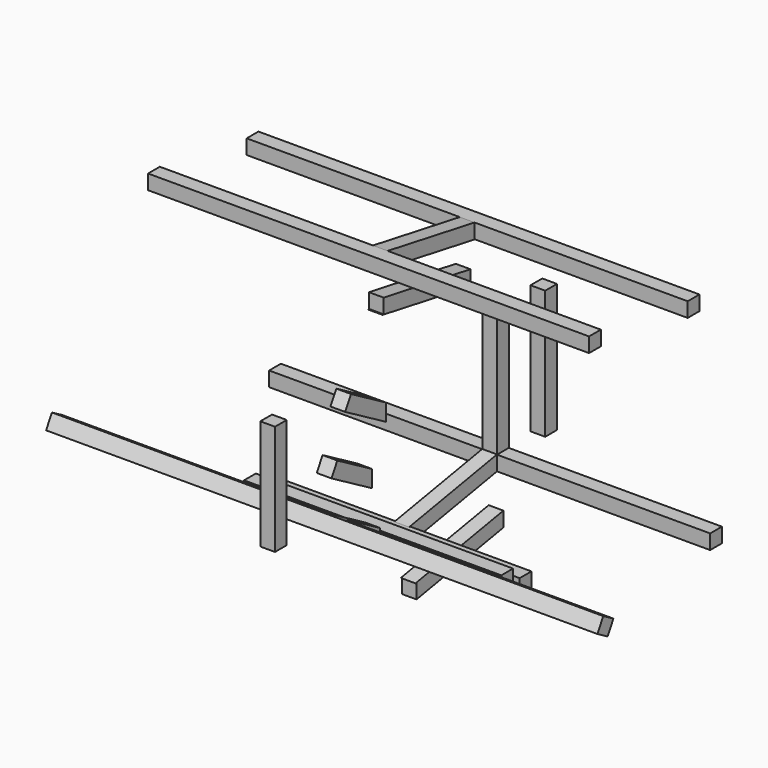
from build123d import *

# Parameters (mm, degrees)
F0_W      = 40
F0_H      = 40
F1_DEPTH  = 350
F2_DEPTH  = 20
F3_DEPTH  = 750
F5_DEPTH  = 20
F8_DEPTH  = 20
F10_DEPTH = 350
F11_DEPTH = 20
F13_DEPTH = 20
F9_W      = 40
F9_H      = 40
F14_DEPTH = 600
F15_W     = 40
F15_H     = 350
F16_DEPTH = 20
F18_DEPTH = 20
F17_W     = 40
F17_H     = 40
F19_DEPTH = 600
F21_DEPTH = 20
F22_W     = 40
F22_H     = 300
F23_DEPTH = 40


with BuildPart() as f1:
    # F0 (on Right) → F1 (new body, symmetric)
    with BuildSketch(Plane.YZ):
        Rectangle(F0_W, F0_H)
    extrude(amount=F1_DEPTH, both=True)

    # F0 (on Right) → F2 (join, symmetric)
    with BuildSketch(Plane.YZ):
        Polygon((-20, -20), (-20, 20), (-20, 26.188022), (-138.564065, 94.641016), (-158.564065, 60), align=None)
    extrude(amount=F2_DEPTH, both=True)

    # F0 (on Right) → F3 (join, symmetric)
    with BuildSketch(Plane.YZ):
        Polygon((-193.205081, 80), (-158.564065, 60), (-138.564065, 94.641016), (-173.205081, 114.641016), align=None)
    extrude(amount=F3_DEPTH, both=True)


with BuildPart() as f5:
    # F4 (on Right) → F5 (new body, symmetric)
    with BuildSketch(Plane.YZ):
        Polygon((-185.238257, 212.067865), (-46.674197, 132.067868), (-46.674197, 178.255889), (-165.238257, 246.708881), align=None)
    extrude(amount=F5_DEPTH, both=True)


with BuildPart() as f6_1:
    # F6: copy of F5
    add(f5.part)


with BuildPart() as f8:
    # F7 (on Right) → F8 (new body, symmetric)
    with BuildSketch(Plane.YZ):
        Polygon((-138.56406, 352.315604), (0, 272.315607), (0, 318.503628), (-118.56406, 386.95662), align=None)
    extrude(amount=F8_DEPTH, both=True)


with BuildPart() as f10:
    # F9 (on Right) → F10 (new body, symmetric)
    with BuildSketch(Plane.YZ):
        Polygon((78.92231, -12.094453), (42.421856, -12.094453), (42.421856, -52.094453), (82.421856, -52.094453), (82.421856, -12.094453), align=None)
    extrude(amount=F10_DEPTH, both=True)

    # F9 (on Right) → F11 (join, symmetric)
    with BuildSketch(Plane.YZ):
        Polygon((377.864182, 40.617064), (78.92231, -12.094453), (82.421856, -12.094453), (82.421856, -52.094453), (377.864182, 0), (377.864182, 40), align=None)
        Polygon((377.864182, 390), (377.864182, 40.617064), (377.864182, 40), (417.864182, 40), (417.864182, 390), align=None)
    extrude(amount=F11_DEPTH, both=True)

    # F9 (on Right) → F14 (join, symmetric)
    with BuildSketch(Plane.YZ):
        with Locations((397.864182, 20)):
            Rectangle(F9_W, F9_H)
    extrude(amount=F14_DEPTH, both=True)


with BuildPart() as f13:
    # F12 (on Right) → F13 (new body, symmetric)
    with BuildSketch(Plane.YZ):
        Polygon((399.578743, -102.801421), (100.636871, -155.512939), (104.136417, -155.512939), (104.136417, -195.512939), (399.578743, -143.418485), align=None)
    extrude(amount=F13_DEPTH, both=True)


with BuildPart() as f16:
    # F15 (on Right) → F16 (new body, symmetric)
    with BuildSketch(Plane.YZ):
        with Locations((561.860467, 191.114502)):
            Rectangle(F15_W, F15_H)
    extrude(amount=F16_DEPTH, both=True)


with BuildPart() as f18:
    # F17 (on Right) → F18 (new body, symmetric)
    with BuildSketch(Plane.YZ):
        Polygon((301.469119, 586.527672), (301.469119, 587.144736), (301.469119, 627.144736), (6.026793, 679.23919), (6.026793, 639.23919), (2.527246, 639.23919), align=None)
    extrude(amount=F18_DEPTH, both=True)

    # F17 (on Right) → F19 (join, symmetric)
    with BuildSketch(Plane.YZ):
        Polygon((6.026793, 639.23919), (6.026793, 679.23919), (-33.973207, 679.23919), (-33.973207, 639.23919), (2.527246, 639.23919), align=None)
        with Locations((321.469119, 607.144736)):
            Rectangle(F17_W, F17_H)
    extrude(amount=F19_DEPTH, both=True)


with BuildPart() as f21:
    # F20 (on Right) → F21 (new body, symmetric)
    with BuildSketch(Plane.YZ):
        Polygon((287.774519, 480.177496), (287.774519, 520.794561), (-7.667807, 572.889014), (-7.667807, 532.889014), (-11.167353, 532.889014), align=None)
    extrude(amount=F21_DEPTH, both=True)


with BuildPart() as f23:
    # F22 (on Right) → F23 (new body)
    with BuildSketch(Plane.YZ):
        with Locations((-382.198771, 280.496299)):
            Rectangle(F22_W, F22_H)
    extrude(amount=F23_DEPTH)


solid = Compound([f1.part, f5.part, f6_1.part, f8.part, f10.part, f13.part, f16.part, f18.part, f21.part, f23.part])
